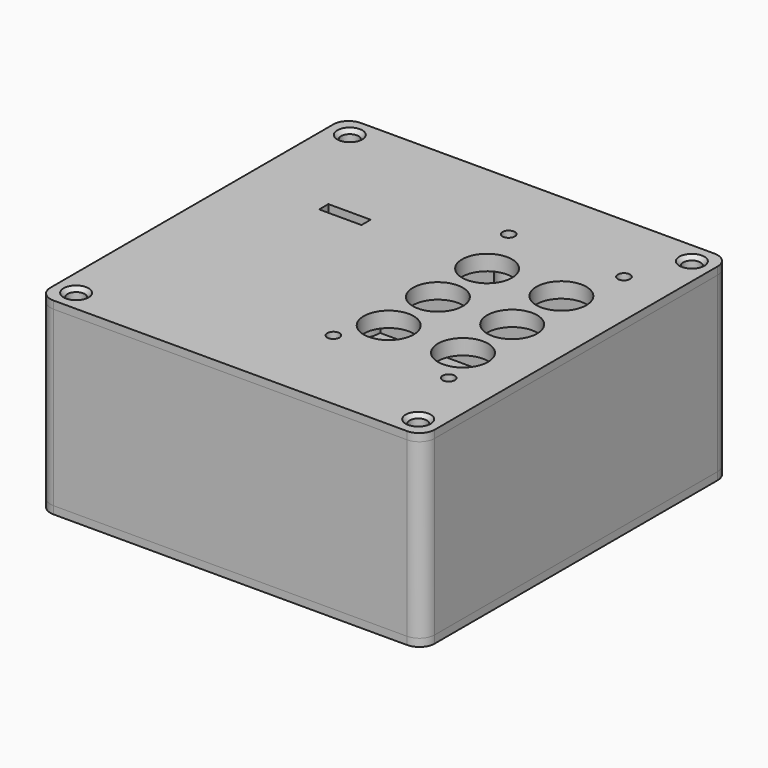
from build123d import *

# Parameters (mm, degrees)
PAD_DEPTH                     = 45
POCKET_DEPTH                  = 45
SKETCH003_R                   = 1.75
PAD001_DEPTH                  = 41
SKETCH003_MIRRORED_2_R        = 1.75
PAD001_MIRRORED_2_DEPTH       = 41
PAD002_DEPTH                  = 2
PAD003_DEPTH                  = 2
SKETCH006_R                   = 2.25
POCKET001_DEPTH               = 286.956827
SKETCH006_MIRRORED002_2_R     = 2.25
POCKET001_MIRRORED002_2_DEPTH = 286.956827
CHAMFER001_SIZE               = 1
SKETCH017_R                   = 3
PAD007_DEPTH                  = 9.7
SKETCH018_R                   = 1.6
SKETCH018_R_2                 = 6.5
POCKET004_DEPTH               = 13.001
SKETCH019_W                   = 11
SKETCH019_H                   = 3
POCKET005_DEPTH               = 5
PAD004_DEPTH                  = 2
PAD005_DEPTH                  = 2
SKETCH009_R                   = 2.25
POCKET002_DEPTH               = 6.001
SKETCH011_R                   = 3.75
PAD006_DEPTH                  = 4
SKETCH012_R                   = 1.6
POCKET003_DEPTH               = 5
SKETCH020_R                   = 5.5
POCKET006_DEPTH               = 5


with BuildPart() as box:
    # Sketch → Pad (new body)
    with BuildSketch(Plane.XY):
        with BuildLine():
            Line((-50, 46), (-50, -46))
            ThreePointArc((-50, -46), (-48.828427, -48.828427), (-46, -50))
            Line((-46, -50), (46, -50))
            ThreePointArc((46, -50), (48.828427, -48.828427), (50, -46))
            Line((50, -46), (50, 46))
            ThreePointArc((50, 46), (48.828427, 48.828427), (46, 50))
            Line((46, 50), (-46, 50))
            ThreePointArc((-46, 50), (-48.828427, 48.828427), (-50, 46))
        make_face()
    extrude(amount=PAD_DEPTH)

    # Sketch002 → Pocket (cut)
    with BuildSketch(Plane.XY):
        with BuildLine():
            Line((-46, 48), (46, 48))
            ThreePointArc((48, 46), (47.414214, 47.414214), (46, 48))
            Line((48, 46), (48, -46))
            ThreePointArc((46, -48), (47.414214, -47.414214), (48, -46))
            Line((46, -48), (-46, -48))
            ThreePointArc((-48, -46), (-47.414214, -47.414214), (-46, -48))
            Line((-48, -46), (-48, 46))
            ThreePointArc((-46, 48), (-47.414214, 47.414214), (-48, 46))
        make_face()
    extrude(amount=POCKET_DEPTH, mode=Mode.SUBTRACT)

    # Sketch003 → Pad001 (join)
    with BuildSketch(Plane.XY.offset(2)):
        with BuildLine():
            Line((-48, 39.25), (-48, 46))
            ThreePointArc((-46, 48), (-47.414214, 47.414214), (-48, 46))
            Line((-46, 48), (-39.25, 48))
            ThreePointArc((-48, 39.25), (-41.812816, 41.812816), (-39.25, 48))
        make_face()
        with Locations((-44.5, 44.5)):
            Circle(SKETCH003_R, mode=Mode.SUBTRACT)
    pad001 = extrude(amount=PAD001_DEPTH)

    # Sketch003 Mirrored 2 → Pad001 Mirrored 2 (add)
    with BuildSketch(Plane(origin=(0, 0, 2), x_dir=(-1, 0, 0), z_dir=(0, 0, -1))):
        with BuildLine():
            Line((-48, 39.25), (-48, 46))
            ThreePointArc((-46, 48), (-47.414214, 47.414214), (-48, 46))
            Line((-46, 48), (-39.25, 48))
            ThreePointArc((-48, 39.25), (-41.812816, 41.812816), (-39.25, 48))
        make_face()
        with Locations((-44.5, 44.5)):
            Circle(SKETCH003_MIRRORED_2_R, mode=Mode.SUBTRACT)
    pad001_mirrored_2 = extrude(amount=-PAD001_MIRRORED_2_DEPTH)

    # Mirrored001: Pad001, Pad001 Mirrored 2 across XZ
    add(pad001.mirror(Plane.XZ))
    add(pad001_mirrored_2.mirror(Plane.XZ))


with BuildPart() as lid_top:
    # Sketch004 → Pad002 (new body)
    with BuildSketch(Plane.XY.offset(45)):
        with BuildLine():
            Line((-46, 50), (46, 50))
            ThreePointArc((50, 46), (48.828427, 48.828427), (46, 50))
            Line((50, 46), (50, -46))
            ThreePointArc((46, -50), (48.828427, -48.828427), (50, -46))
            Line((46, -50), (-46, -50))
            ThreePointArc((-50, -46), (-48.828427, -48.828427), (-46, -50))
            Line((-50, -46), (-50, 46))
            ThreePointArc((-46, 50), (-48.828427, 48.828427), (-50, 46))
        make_face()
    extrude(amount=PAD002_DEPTH)

    # Sketch005 → Pad003 (join)
    with BuildSketch(Plane.XY.offset(45)):
        with BuildLine():
            Line((-46.1, 47.9), (46.1, 47.9))
            ThreePointArc((47.9, 46.1), (47.372792, 47.372792), (46.1, 47.9))
            Line((47.9, 46.1), (47.9, -46.1))
            ThreePointArc((46.1, -47.9), (47.372792, -47.372792), (47.9, -46.1))
            Line((46.1, -47.9), (-46.1, -47.9))
            ThreePointArc((-47.9, -46.1), (-47.372792, -47.372792), (-46.1, -47.9))
            Line((-47.9, -46.1), (-47.9, 46.1))
            ThreePointArc((-46.1, 47.9), (-47.372792, 47.372792), (-47.9, 46.1))
        make_face()
    extrude(amount=-PAD003_DEPTH)

    # Sketch006 → Pocket001 (cut, through all)
    with BuildSketch(Plane.XY.offset(43)):
        with Locations((-44.5, 44.5)):
            Circle(SKETCH006_R)
    pocket001 = extrude(amount=POCKET001_DEPTH, mode=Mode.SUBTRACT)

    # Sketch006 Mirrored002 2 → Pocket001 Mirrored002 2 (cut, through all)
    with BuildSketch(Plane(origin=(0, 0, 43), x_dir=(1, 0, 0), z_dir=(0, 0, -1))):
        with Locations((-44.5, 44.5)):
            Circle(SKETCH006_MIRRORED002_2_R)
    pocket001_mirrored002_2 = extrude(amount=-POCKET001_MIRRORED002_2_DEPTH, mode=Mode.SUBTRACT)

    # Mirrored003: Pocket001, Pocket001 Mirrored002 2 across Sketch006 V_Axis
    add(pocket001.mirror(Plane(origin=(0, 0, 43), x_dir=(0, 0, 1), z_dir=(1, 0, 0))), mode=Mode.SUBTRACT)
    add(pocket001_mirrored002_2.mirror(Plane(origin=(0, 0, 43), x_dir=(0, 0, 1), z_dir=(1, 0, 0))), mode=Mode.SUBTRACT)

    # Chamfer001
    chamfer001_edges = [lid_top.edges().sort_by_distance(p)[0] for p in [
        (-46.75, 44.5, 47),
        (46.75, 44.5, 47),
        (46.75, -44.5, 47),
        (-46.75, -44.5, 47),
    ]]
    chamfer(chamfer001_edges, length=CHAMFER001_SIZE)

    # Sketch017 → Pad007 (join)
    with BuildSketch(Plane.XY.offset(43.7)):
        with Locations((8, 30.54)):
            Circle(SKETCH017_R)
        with Locations((38, 30.54)):
            Circle(SKETCH017_R)
        with Locations((8, -26.46)):
            Circle(SKETCH017_R)
        with Locations((38, -26.46)):
            Circle(SKETCH017_R)
    extrude(amount=-PAD007_DEPTH)

    # Sketch018 → Pocket004 (cut, through all)
    with BuildSketch(Plane.XY.offset(47)):
        with Locations((8, 30.54)):
            Circle(SKETCH018_R)
        with Locations((38, 30.54)):
            Circle(SKETCH018_R)
        with Locations((8, -26.46)):
            Circle(SKETCH018_R)
        with Locations((38, -26.46)):
            Circle(SKETCH018_R)
        with Locations((33.35, 16)):
            Circle(SKETCH018_R_2)
        with Locations((14.02, 16)):
            Circle(SKETCH018_R_2)
        with Locations((33.35, 0)):
            Circle(SKETCH018_R_2)
        with Locations((14.02, 0)):
            Circle(SKETCH018_R_2)
        with Locations((14.02, -16)):
            Circle(SKETCH018_R_2)
        with Locations((33.35, -16)):
            Circle(SKETCH018_R_2)
    extrude(amount=-POCKET004_DEPTH, mode=Mode.SUBTRACT)

    # Sketch019 → Pocket005 (cut)
    with BuildSketch(Plane.XY.offset(47)):
        with Locations((-23.37, 16.5)):
            Rectangle(SKETCH019_W, SKETCH019_H)
    extrude(amount=-POCKET005_DEPTH, mode=Mode.SUBTRACT)


with BuildPart() as lid_bottom:
    # Sketch007 → Pad004 (new body)
    with BuildSketch(Plane.XY):
        with BuildLine():
            Line((-46, 50), (46, 50))
            ThreePointArc((50, 46), (48.828427, 48.828427), (46, 50))
            Line((50, 46), (50, -46))
            ThreePointArc((46, -50), (48.828427, -48.828427), (50, -46))
            Line((46, -50), (-46, -50))
            ThreePointArc((-50, -46), (-48.828427, -48.828427), (-46, -50))
            Line((-50, -46), (-50, 46))
            ThreePointArc((-46, 50), (-48.828427, 48.828427), (-50, 46))
        make_face()
    extrude(amount=-PAD004_DEPTH)

    # Sketch008 → Pad005 (join)
    with BuildSketch(Plane.XY):
        with BuildLine():
            Line((-45.8, 47.8), (45.8, 47.8))
            ThreePointArc((47.8, 45.8), (47.214214, 47.214214), (45.8, 47.8))
            Line((47.8, 45.8), (47.8, -45.8))
            ThreePointArc((45.8, -47.8), (47.214214, -47.214214), (47.8, -45.8))
            Line((45.8, -47.8), (-45.8, -47.8))
            ThreePointArc((-47.8, -45.8), (-47.214214, -47.214214), (-45.8, -47.8))
            Line((-47.8, -45.8), (-47.8, 45.8))
            ThreePointArc((-45.8, 47.8), (-47.214214, 47.214214), (-47.8, 45.8))
        make_face()
    extrude(amount=PAD005_DEPTH)

    # Sketch009 → Pocket002 (cut, through all)
    with BuildSketch(Plane.XY.offset(-4)):
        with Locations((-44.5, 44.5)):
            Circle(SKETCH009_R)
        with Locations((44.5, 44.5)):
            Circle(SKETCH009_R)
        with Locations((44.5, -44.5)):
            Circle(SKETCH009_R)
        with Locations((-44.5, -44.5)):
            Circle(SKETCH009_R)
    extrude(amount=POCKET002_DEPTH, mode=Mode.SUBTRACT)

    # Sketch011 → Pad006 (join)
    with BuildSketch(Plane.XY):
        with Locations((-29.1, 32.875)):
            Circle(SKETCH011_R)
        with Locations((29.1, 32.875)):
            Circle(SKETCH011_R)
        with Locations((29.1, -32.875)):
            Circle(SKETCH011_R)
        with Locations((-29.1, -32.875)):
            Circle(SKETCH011_R)
    extrude(amount=PAD006_DEPTH)

    # Sketch012 → Pocket003 (cut, symmetric)
    with BuildSketch(Plane.XY):
        with Locations((-29.1, 32.875)):
            Circle(SKETCH012_R)
        with Locations((29.1, 32.875)):
            Circle(SKETCH012_R)
        with Locations((29.1, -32.875)):
            Circle(SKETCH012_R)
        with Locations((-29.1, -32.875)):
            Circle(SKETCH012_R)
    extrude(amount=POCKET003_DEPTH, both=True, mode=Mode.SUBTRACT)

    # Sketch020 → Pocket006 (cut)
    with BuildSketch(Plane.XY.offset(2)):
        with Locations((-42, -30)):
            Circle(SKETCH020_R)
        with BuildLine():
            Line((-12.97, -38), (12.97, -38))
            ThreePointArc((12.93, -45.9998), (16.96995, -42.02), (12.97, -38))
            Line((-12.93, -45.9998), (12.93, -45.9998))
            ThreePointArc((-12.97, -38), (-16.96995, -42.02), (-12.93, -45.9998))
        make_face()
    extrude(amount=-POCKET006_DEPTH, mode=Mode.SUBTRACT)


solid = Compound([box.part, lid_top.part, lid_bottom.part])
